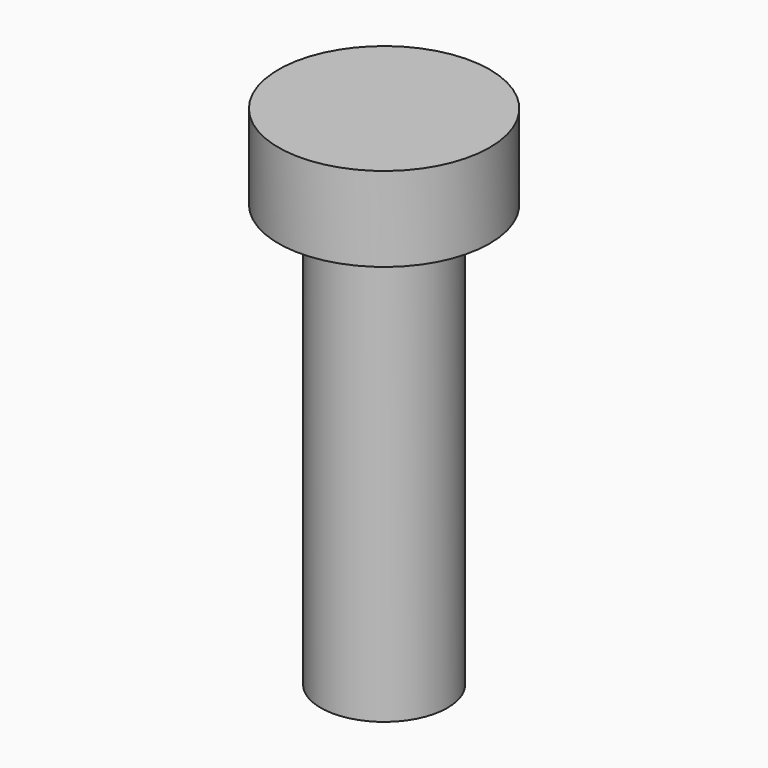
from build123d import *


with BuildPart() as part:
    # Sketch → Revolution (revolve)
    with BuildSketch(Plane.XZ):
        Polygon((0, 0), (0, 12), (2.5, 12), (2.5, 10), (1.5, 10), (1.5, 0), align=None)
    revolve(axis=Axis((0, 0, 0), (0, 0, 1)))


solid = part.part
